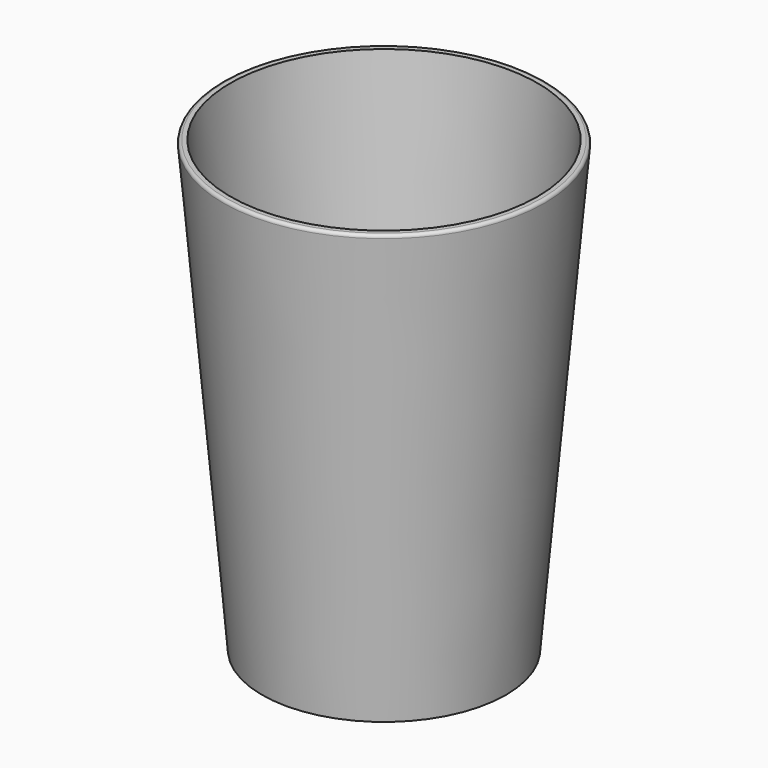
from build123d import *

# Parameters (mm, degrees)
F0_R     = 40.7452616352
F1_DEPTH = 150
F1_TAPER = -5
F2_T     = -2.54
F3_R     = 1


with BuildPart() as f1:
    # F0 (on Top) → F1 (new body)
    with BuildSketch(Plane.XY):
        Circle(F0_R)
    extrude(amount=F1_DEPTH, taper=F1_TAPER)

    # F2
    f2_openings = [f1.faces().sort_by_distance(p)[0] for p in [
        (0, 0, 150),
    ]]
    offset(amount=F2_T, openings=f2_openings, kind=Kind.INTERSECTION)

    # F3
    f3_edges = [f1.edges().sort_by_distance(p)[0] for p in [
        (-53.868561, 0, 150),
    ]]
    fillet(f3_edges, radius=F3_R)


solid = f1.part
